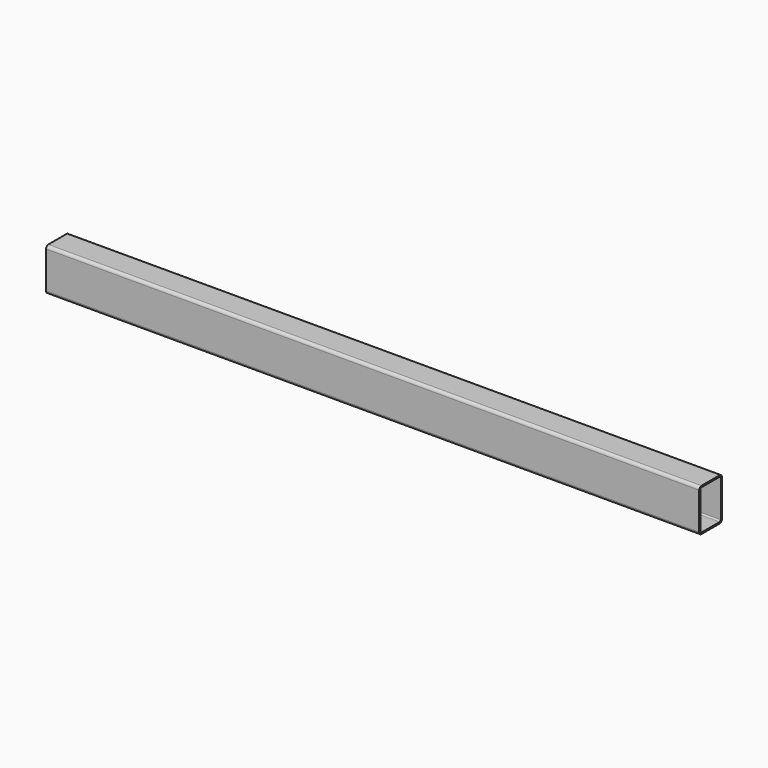
from build123d import *

# Parameters (mm, degrees)
F1_DEPTH = 2300


with BuildPart() as f1:
    # F0 (on Right) → F1 (new body)
    with BuildSketch(Plane.YZ):
        with BuildLine():
            ThreePointArc((50, 65), (47.071068, 72.071068), (40, 75))
            Line((40, 75), (-40, 75))
            ThreePointArc((-40, 75), (-47.071068, 72.071068), (-50, 65))
            Line((-50, 65), (-50, -65))
            ThreePointArc((-50, -65), (-47.071068, -72.071068), (-40, -75))
            Line((-40, -75), (40, -75))
            ThreePointArc((40, -75), (47.071068, -72.071068), (50, -65))
            Line((50, -65), (50, 65))
        make_face()
        with BuildLine():
            ThreePointArc((45, -65), (43.535534, -68.535534), (40, -70))
            Line((40, -70), (-40, -70))
            ThreePointArc((-40, -70), (-43.535534, -68.535534), (-45, -65))
            Line((-45, -65), (-45, 65))
            ThreePointArc((-45, 65), (-43.535534, 68.535534), (-40, 70))
            Line((-40, 70), (40, 70))
            ThreePointArc((40, 70), (43.535534, 68.535534), (45, 65))
            Line((45, 65), (45, -65))
        make_face(mode=Mode.SUBTRACT)
    extrude(amount=F1_DEPTH)


solid = f1.part
